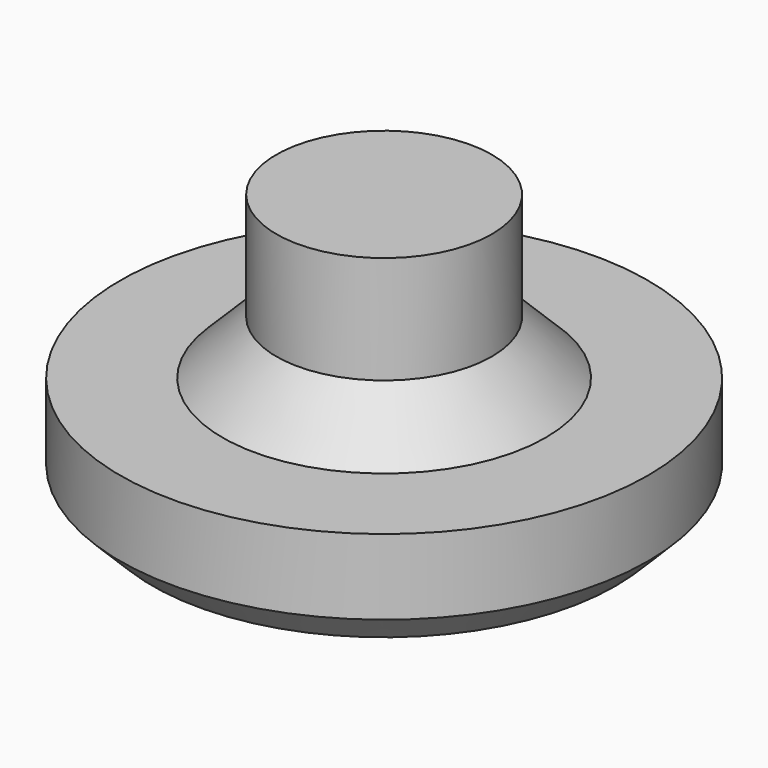
from build123d import *

# Parameters (mm, degrees)
SKETCH_R        = 4.9
PAD_DEPTH       = 2
SKETCH001_R     = 2
PAD001_DEPTH    = 3
CHAMFER_SIZE    = 1
CHAMFER001_SIZE = 0.6


with BuildPart() as part:
    # Sketch → Pad (new body)
    with BuildSketch(Plane.XY):
        Circle(SKETCH_R)
    extrude(amount=-PAD_DEPTH)

    # Sketch001 → Pad001 (join)
    with BuildSketch(Plane.XY):
        Circle(SKETCH001_R)
    extrude(amount=PAD001_DEPTH)

    # Chamfer
    chamfer_edges = [part.edges().sort_by_distance(p)[0] for p in [
        (-2, 0, 0),
    ]]
    chamfer(chamfer_edges, length=CHAMFER_SIZE)

    # Chamfer001
    chamfer001_edges = [part.edges().sort_by_distance(p)[0] for p in [
        (-4.9, 0, -2),
    ]]
    chamfer(chamfer001_edges, length=CHAMFER001_SIZE)


solid = part.part
